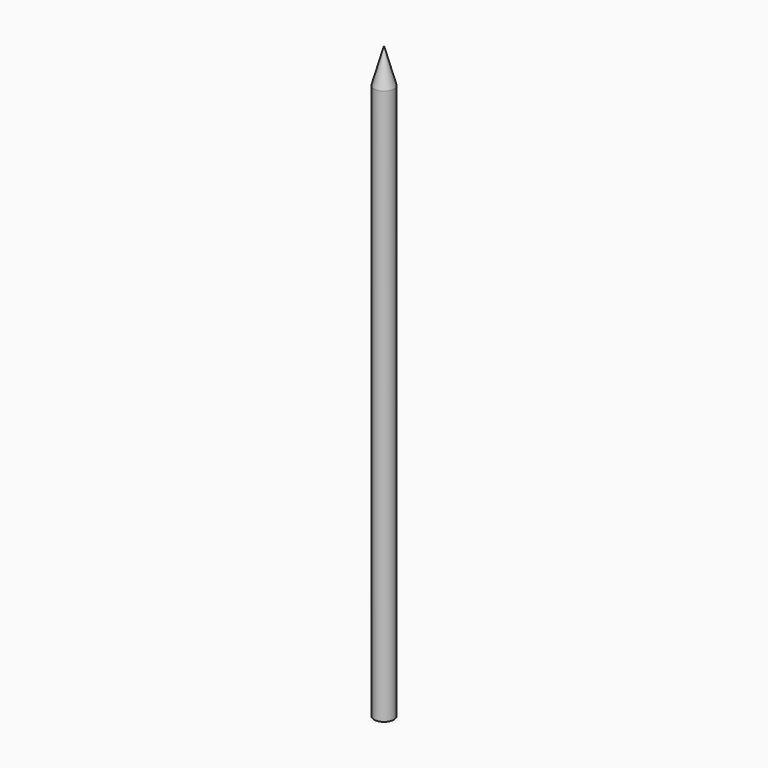
from build123d import *

# Parameters (mm, degrees)
F0_R     = 6
F1_DEPTH = 338.5
F2_R     = 6
F3_DEPTH = 21
F3_TAPER = 15.75


with BuildPart() as f1:
    # F0 (on Top) → F1 (new body)
    with BuildSketch(Plane.XY):
        Circle(F0_R)
    extrude(amount=F1_DEPTH)

    # F2 (on face) → F3 (join)
    with BuildSketch(Plane.XY.offset(338.5)):
        Circle(F2_R)
    extrude(amount=F3_DEPTH, taper=F3_TAPER)


solid = f1.part
